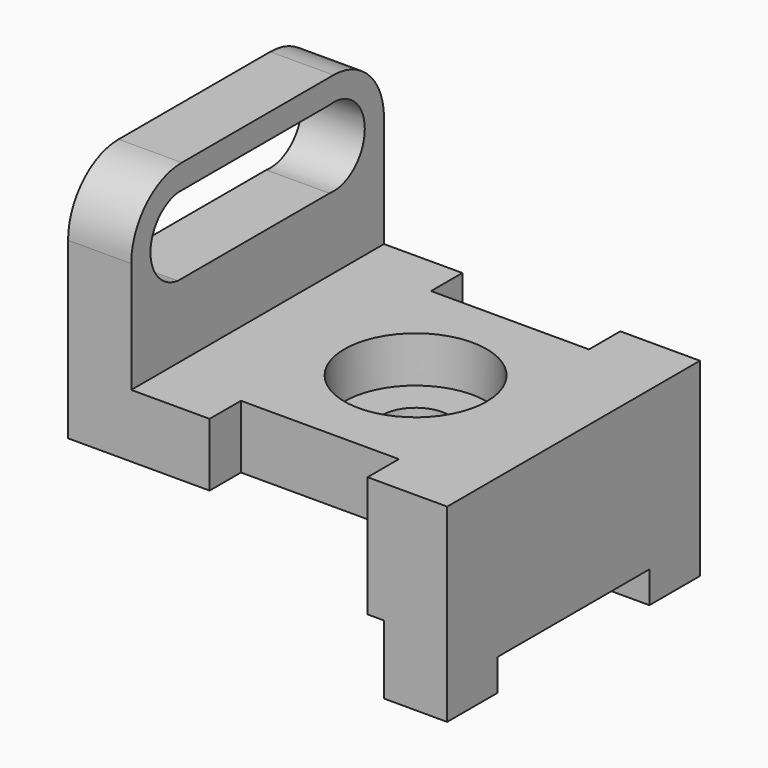
from build123d import *

# Parameters (mm, degrees)
F1_DEPTH = 63.5
F2_W     = 38.1
F2_H     = 6.35
F3_DEPTH = 63.501
F4_W     = 31.75
F4_H     = 7.874
F5_DEPTH = 38.101
F4_R     = 14.2875
F4_R_2   = 6.7437
F6_DEPTH = 9.2456
F7_DEPTH = 38.101
F8_W     = 63.5
F8_H     = 12.7
F9_DEPTH = 12.7


with BuildPart() as f1:
    # F0 (on Front) → F1 (new body)
    with BuildSketch(Plane.XZ):
        Polygon((0, 12.7), (0, 0), (47.498, 0), (47.498, -11.579418), (50.8, -11.579418), (50.8, -25.4), (63.5, -25.4), (63.5, 12.7), (47.498, 12.7), align=None)
    extrude(amount=F1_DEPTH)

    # F2 (on face) → F3 (cut, through all)
    with BuildSketch(Plane.YZ.offset(63.5)):
        with Locations((-31.75, -22.225)):
            Rectangle(F2_W, F2_H)
    extrude(amount=-F3_DEPTH, mode=Mode.SUBTRACT)

    # F4 (on face) → F5 (cut, through all)
    with BuildSketch(Plane.XY.offset(12.7)):
        with Locations((31.623, -3.937)):
            Rectangle(F4_W, F4_H)
        with Locations((31.623, -59.563)):
            Rectangle(F4_W, F4_H)
    extrude(amount=-F5_DEPTH, mode=Mode.SUBTRACT)

    # F4 (on face) → F6 (cut)
    with BuildSketch(Plane.XY.offset(12.7)):
        with Locations((31.75, -31.75)):
            Circle(F4_R)
        with Locations((31.75, -31.75)):
            Circle(F4_R_2, mode=Mode.SUBTRACT)
    extrude(amount=-F6_DEPTH, mode=Mode.SUBTRACT)

    # F4 (on face) → F7 (cut, through all)
    with BuildSketch(Plane.XY.offset(12.7)):
        with Locations((31.75, -31.75)):
            Circle(F4_R_2)
    extrude(amount=-F7_DEPTH, mode=Mode.SUBTRACT)

    # F8 (on face) → F9 (join)
    with BuildSketch(Plane(origin=(0, 0, 0), x_dir=(0, -1, 0), z_dir=(-1, 0, 0))):
        with BuildLine():
            Line((0, 35.052), (0, 12.7))
            Line((0, 12.7), (63.5, 12.7))
            Line((63.5, 12.7), (63.5, 35.052))
            ThreePointArc((63.5, 35.052), (59.780256, 44.032256), (50.8, 47.752))
            Line((50.8, 47.752), (12.7, 47.752))
            ThreePointArc((12.7, 47.752), (3.719744, 44.032256), (0, 35.052))
        make_face()
        with BuildLine():
            Line((13.693089, 42.863124), (51.793089, 42.863124))
            ThreePointArc((51.793089, 42.863124), (58.674, 35.052), (51.793089, 27.240876))
            Line((51.793089, 27.240876), (13.693089, 27.240876))
            ThreePointArc((13.693089, 27.240876), (4.826, 35.052), (13.693089, 42.863124))
        make_face(mode=Mode.SUBTRACT)
        with Locations((31.75, 6.35)):
            Rectangle(F8_W, F8_H)
    extrude(amount=F9_DEPTH)


solid = f1.part
